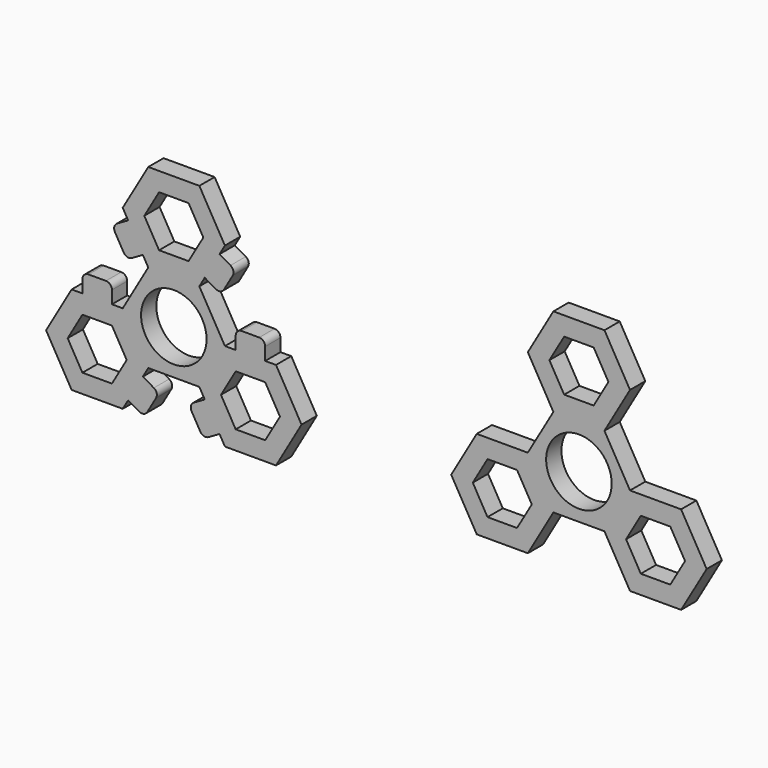
from build123d import *

# Parameters (mm, degrees)
F0_R     = 10.9
F1_DEPTH = 6.35
F2_DEPTH = 6.35


with BuildPart() as f1:
    # F0 (on Front) → F1 (new body)
    with BuildSketch(Plane.XZ):
        Polygon((17, 0), (8.5, 14.722432), (17, 29.444864), (8.5, 44.167296), (-8.5, 44.167296), (-17, 29.444864), (-8.5, 14.722432), (-17, 0), (-34, 0), (-42.5, -14.722432), (-34, -29.444864), (-17, -29.444864), (-8.5, -14.722432), (8.5, -14.722432), (17, -29.444864), (34, -29.444864), (42.5, -14.722432), (34, 0), align=None)
        Polygon((-15.685045, -14.722432), (-20.592523, -23.222432), (-30.407477, -23.222432), (-35.314955, -14.722432), (-30.407477, -6.222432), (-20.592523, -6.222432), align=None, mode=Mode.SUBTRACT)
        Polygon((15.685045, -14.722432), (20.592523, -6.222432), (30.407477, -6.222432), (35.314955, -14.722432), (30.407477, -23.222432), (20.592523, -23.222432), align=None, mode=Mode.SUBTRACT)
        Circle(F0_R, mode=Mode.SUBTRACT)
        Polygon((4.907477, 20.944864), (-4.907477, 20.944864), (-9.814955, 29.444864), (-4.907477, 37.944864), (4.907477, 37.944864), (9.814955, 29.444864), align=None, mode=Mode.SUBTRACT)
    extrude(amount=F1_DEPTH)

    # F0 (on Front) → F2 (join)
    with BuildSketch(Plane.XZ):
        Polygon((17, 0), (8.5, 14.722432), (17, 29.444864), (8.5, 44.167296), (-8.5, 44.167296), (-17, 29.444864), (-8.5, 14.722432), (-17, 0), (-34, 0), (-42.5, -14.722432), (-34, -29.444864), (-17, -29.444864), (-8.5, -14.722432), (8.5, -14.722432), (17, -29.444864), (34, -29.444864), (42.5, -14.722432), (34, 0), align=None)
        Polygon((-15.685045, -14.722432), (-20.592523, -23.222432), (-30.407477, -23.222432), (-35.314955, -14.722432), (-30.407477, -6.222432), (-20.592523, -6.222432), align=None, mode=Mode.SUBTRACT)
        Polygon((15.685045, -14.722432), (20.592523, -6.222432), (30.407477, -6.222432), (35.314955, -14.722432), (30.407477, -23.222432), (20.592523, -23.222432), align=None, mode=Mode.SUBTRACT)
        Circle(F0_R, mode=Mode.SUBTRACT)
        Polygon((4.907477, 20.944864), (-4.907477, 20.944864), (-9.814955, 29.444864), (-4.907477, 37.944864), (4.907477, 37.944864), (9.814955, 29.444864), align=None, mode=Mode.SUBTRACT)
        with BuildLine():
            Line((-117.787359, -1.536604), (-126.287359, 13.185828))
            Line((-126.287359, 13.185828), (-124.491098, 16.297044))
            Line((-124.491098, 16.297044), (-120.834366, 14.185829))
            ThreePointArc((-120.834366, 14.185829), (-119.316728, 13.986028), (-118.102316, 14.917879))
            Line((-118.102316, 14.917879), (-115.194838, 19.953778))
            ThreePointArc((-115.194838, 19.953778), (-114.995038, 21.471416), (-115.926889, 22.685829))
            Line((-115.926889, 22.685829), (-119.583621, 24.797044))
            Line((-119.583621, 24.797044), (-117.787359, 27.90826))
            Line((-117.787359, 27.90826), (-126.287359, 42.630691))
            Line((-126.287359, 42.630691), (-143.287359, 42.630691))
            Line((-143.287359, 42.630691), (-151.787359, 27.90826))
            Line((-151.787359, 27.90826), (-149.991098, 24.797044))
            Line((-149.991098, 24.797044), (-153.64783, 22.685829))
            ThreePointArc((-153.64783, 22.685829), (-154.579681, 21.471416), (-154.379881, 19.953778))
            Line((-154.379881, 19.953778), (-151.472403, 14.917879))
            ThreePointArc((-151.472403, 14.917879), (-150.257991, 13.986028), (-148.740352, 14.185829))
            Line((-148.740352, 14.185829), (-145.083621, 16.297044))
            Line((-145.083621, 16.297044), (-143.287359, 13.185828))
            Line((-143.287359, 13.185828), (-151.787359, -1.536604))
            Line((-151.787359, -1.536604), (-155.379882, -1.536604))
            Line((-155.379882, -1.536604), (-155.379882, 2.685826))
            ThreePointArc((-155.379882, 2.685826), (-155.965669, 4.100039), (-157.379882, 4.685826))
            Line((-157.379882, 4.685826), (-163.194837, 4.685826))
            ThreePointArc((-163.194837, 4.685826), (-164.60905, 4.100039), (-165.194837, 2.685826))
            Line((-165.194837, 2.685826), (-165.194837, -1.536604))
            Line((-165.194837, -1.536604), (-168.787359, -1.536604))
            Line((-168.787359, -1.536604), (-177.287359, -16.259036))
            Line((-177.287359, -16.259036), (-168.787359, -30.981468))
            Line((-168.787359, -30.981468), (-151.787359, -30.981468))
            Line((-151.787359, -30.981468), (-149.991098, -27.870252))
            Line((-149.991098, -27.870252), (-146.334366, -29.981467))
            ThreePointArc((-146.334366, -29.981467), (-144.816728, -30.181268), (-143.602316, -29.249416))
            Line((-143.602316, -29.249416), (-140.694838, -24.213518))
            ThreePointArc((-140.694838, -24.213518), (-140.495038, -22.69588), (-141.426889, -21.481467))
            Line((-141.426889, -21.481467), (-145.083621, -19.370252))
            Line((-145.083621, -19.370252), (-143.287359, -16.259036))
            Line((-143.287359, -16.259036), (-126.287359, -16.259036))
            Line((-126.287359, -16.259036), (-124.491098, -19.370252))
            Line((-124.491098, -19.370252), (-128.14783, -21.481467))
            ThreePointArc((-128.14783, -21.481467), (-129.079681, -22.69588), (-128.879881, -24.213518))
            Line((-128.879881, -24.213518), (-125.972403, -29.249416))
            ThreePointArc((-125.972403, -29.249416), (-124.757991, -30.181268), (-123.240352, -29.981467))
            Line((-123.240352, -29.981467), (-119.583621, -27.870252))
            Line((-119.583621, -27.870252), (-117.787359, -30.981468))
            Line((-117.787359, -30.981468), (-100.787359, -30.981468))
            Line((-100.787359, -30.981468), (-92.287359, -16.259036))
            Line((-92.287359, -16.259036), (-100.787359, -1.536604))
            Line((-100.787359, -1.536604), (-104.379882, -1.536604))
            Line((-104.379882, -1.536604), (-104.379882, 2.685826))
            ThreePointArc((-104.379882, 2.685826), (-104.965669, 4.100039), (-106.379882, 4.685826))
            Line((-106.379882, 4.685826), (-112.194837, 4.685826))
            ThreePointArc((-112.194837, 4.685826), (-113.60905, 4.100039), (-114.194837, 2.685826))
            Line((-114.194837, 2.685826), (-114.194837, -1.536604))
            Line((-114.194837, -1.536604), (-117.787359, -1.536604))
        make_face()
        Polygon((-150.472405, -16.259036), (-155.379882, -24.759036), (-165.194837, -24.759036), (-170.102314, -16.259036), (-165.194837, -7.759036), (-155.379882, -7.759036), align=None, mode=Mode.SUBTRACT)
        Polygon((-119.102314, -16.259036), (-114.194837, -7.759036), (-104.379882, -7.759036), (-99.472405, -16.259036), (-104.379882, -24.759036), (-114.194837, -24.759036), align=None, mode=Mode.SUBTRACT)
        with Locations((-134.787359, -1.536604)):
            Circle(F0_R, mode=Mode.SUBTRACT)
        Polygon((-129.879882, 19.40826), (-139.694837, 19.40826), (-144.602314, 27.90826), (-139.694837, 36.40826), (-129.879882, 36.40826), (-124.972405, 27.90826), align=None, mode=Mode.SUBTRACT)
    extrude(amount=F2_DEPTH)


solid = f1.part
